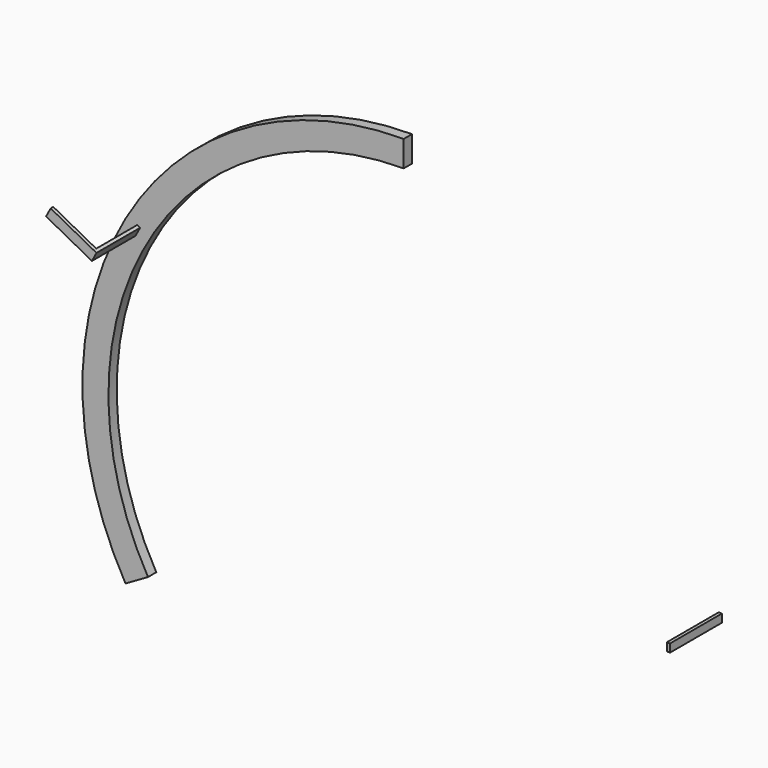
from build123d import *

# Parameters (mm, degrees)
F1_DEPTH = 3.2
F2_W     = 1
F2_H     = 2.5
F3_DEPTH = 20
F4_W     = 1
F4_H     = 2.9982167683
F5_DEPTH = 15


with BuildPart() as f1:
    # F0 (on Front) → F1 (new body)
    with BuildSketch(Plane.XZ):
        with BuildLine():
            ThreePointArc((-78.8083117444, -45.5), (-78.8083117444, 45.5), (0, 91))
            Line((0, 91), (0, 99))
            ThreePointArc((0, 99), (-85.7365149747, 49.5), (-85.7365149747, -49.5))
            Line((-85.7365149747, -49.5), (-78.8083117444, -45.5))
        make_face()
    extrude(amount=F1_DEPTH)

    # F2 (on Front) → F3, piece 2 (join)
    with BuildSketch(Plane.XZ):
        Polygon((-83.0814379502, 46.0702641866), (-82.6397805765, 45.83587399), (-81.2341670322, 48.4841293343), (-82.1174584818, 48.9529536219), (-83.5230953239, 46.3046543832), align=None)
    extrude(amount=F3_DEPTH)

    # F4 (on face) → F5 (join)
    with BuildSketch(Plane(origin=(-84.3401855631, 0, 44.7652102012), x_dir=(0, -1, 0), z_dir=(-0.8832914507, 0, 0.4688242881))):
        with Locations((19.5, 3.2419580186)):
            Rectangle(F4_W, F4_H)
    extrude(amount=F5_DEPTH)


with BuildPart() as f3:
    # F2 (on Front) → F3 (new body)
    with BuildSketch(Plane.XZ):
        with Locations((95, -1.25)):
            Rectangle(F2_W, F2_H)
    extrude(amount=F3_DEPTH)


solid = Compound([f1.part, f3.part])
